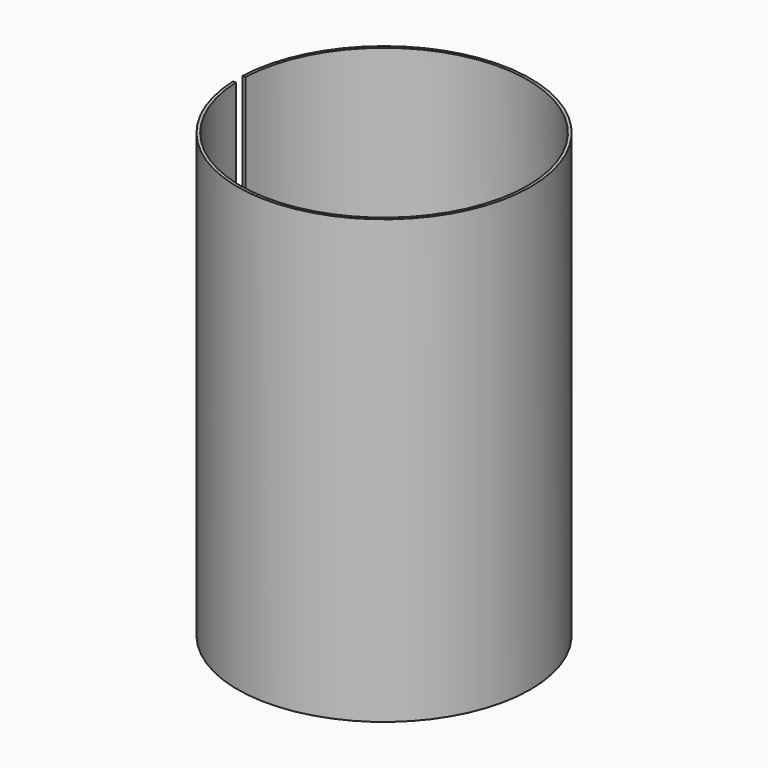
from build123d import *

# Parameters (mm, degrees)
F1_DEPTH = 1
F3_DEPTH = 150


with BuildPart() as f1:
    # F0 (on Top) → F1 (new body)
    with BuildSketch(Plane.XY):
        with BuildLine():
            Line((0, -2), (-49.959984, -2))
            ThreePointArc((-49.959984, -2), (50, 0), (-49.959984, 2))
            Line((-49.959984, 2), (0, 2))
            ThreePointArc((0, 2), (2, 0), (0, -2))
        make_face()
    extrude(amount=F1_DEPTH)

    # F2 (on face) → F3 (join)
    with BuildSketch(Plane.XY.offset(1)):
        with BuildLine():
            Line((-48.959167, -2), (-49.959984, -2))
            ThreePointArc((-49.959984, -2), (50, 0), (-49.959984, 2))
            Line((-49.959984, 2), (-48.959167, 2))
            ThreePointArc((-48.959167, 2), (49, 0), (-48.959167, -2))
        make_face()
    extrude(amount=F3_DEPTH)


solid = f1.part
